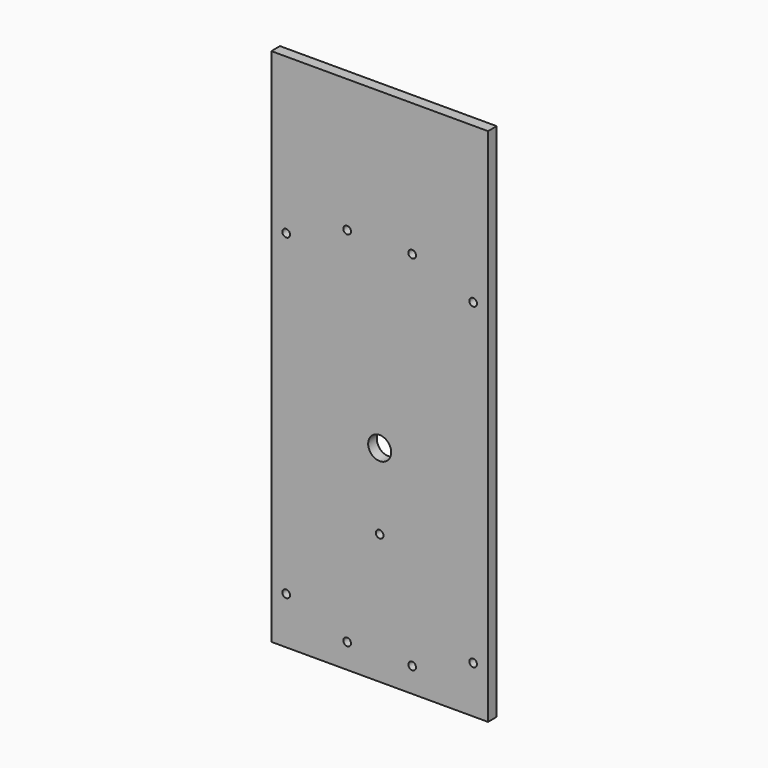
from build123d import *

# Parameters (mm, degrees)
F0_W     = 127
F0_H     = 6.35
F1_DEPTH = 152.4
F3_D     = 4.4958
F4_D     = 13.49248
F5_D     = 4.4958


with BuildPart() as f1:
    # F0 (on Top) → F1 (new body, symmetric)
    with BuildSketch(Plane.XY):
        Rectangle(F0_W, F0_H)
    extrude(amount=F1_DEPTH, both=True)

    # F3 (through all)
    with Locations(Plane(origin=(0, 3.175, 0), x_dir=(-1, 0, 0), z_dir=(0, 1, 0))):
        with Locations((54.7769896194, -124.7698038497), (19.05, -138.0058233698), (-19.05, -138.0058233698), (-54.7769896194, -124.7698038497), (54.7769896194, 61.2698038497), (19.05, 74.5058233698), (-19.05, 74.5058233698), (-54.7769896194, 61.2698038497)):
            Hole(F3_D / 2)

    # F4 (through all)
    with Locations(Plane(origin=(0, 3.175, 0), x_dir=(-1, 0, 0), z_dir=(0, 1, 0))):
        with Locations((0, -31.75)):
            Hole(F4_D / 2)

    # F5 (through all)
    with Locations(Plane(origin=(0, 3.175, 0), x_dir=(-1, 0, 0), z_dir=(0, 1, 0))):
        with Locations((0, -76.2)):
            Hole(F5_D / 2)


solid = f1.part
